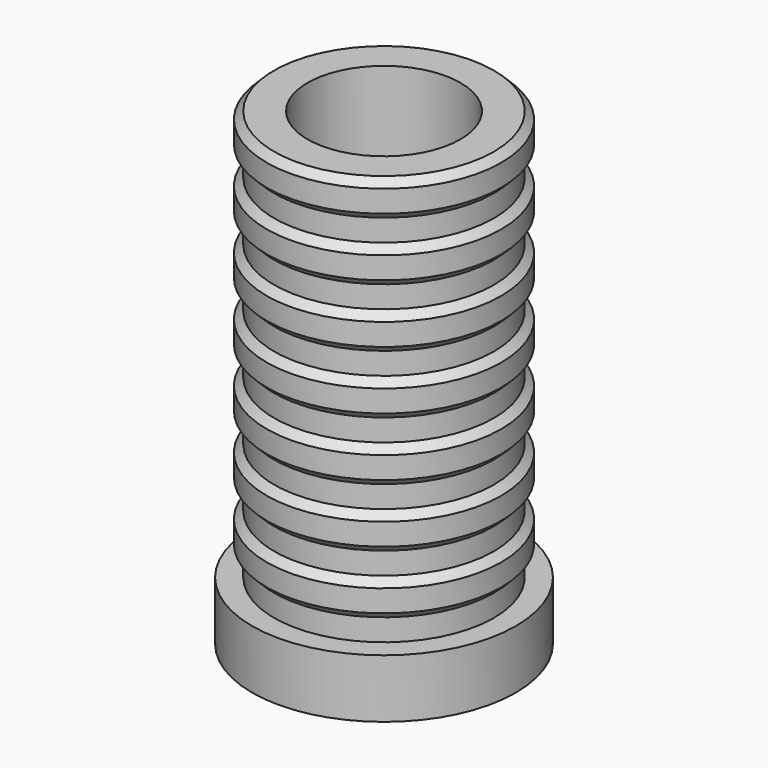
from build123d import *

# Parameters (mm, degrees)
PRISM_DEPTH       = 31
CYLINDER030_R     = 2.75
CYLINDER030_DEPTH = 6
CYLINDER029_R     = 5.2188
CYLINDER029_DEPTH = 31
CYLINDER007_R     = 8
CYLINDER007_DEPTH = 1.5
CYLINDER005_R     = 7.5
CYLINDER005_DEPTH = 2
CYLINDER011_R     = 8
CYLINDER011_DEPTH = 1.5
CYLINDER009_R     = 7.5
CYLINDER009_DEPTH = 2
CYLINDER015_R     = 8
CYLINDER015_DEPTH = 1.5
CYLINDER013_R     = 7.5
CYLINDER013_DEPTH = 2
CYLINDER019_R     = 8
CYLINDER019_DEPTH = 1.5
CYLINDER017_R     = 7.5
CYLINDER017_DEPTH = 2
CYLINDER023_R     = 8
CYLINDER023_DEPTH = 1.5
CYLINDER021_R     = 7.5
CYLINDER021_DEPTH = 2
CYLINDER027_R     = 8
CYLINDER027_DEPTH = 1.5
CYLINDER025_R     = 7.5
CYLINDER025_DEPTH = 2
CYLINDER003_R     = 8
CYLINDER003_DEPTH = 1.5
CYLINDER001_R     = 7.5
CYLINDER001_DEPTH = 2
CYLINDER_R        = 9
CYLINDER_DEPTH    = 4


with BuildPart() as prism:
    # prism → prism (new body)
    with BuildSketch(Plane.XY.offset(4)):
        Polygon((5.08068, 0), (2.54034, 4.399998), (-2.54034, 4.399998), (-5.08068, 0), (-2.54034, -4.399998), (2.54034, -4.399998), align=None)
    extrude(amount=PRISM_DEPTH)


with BuildPart() as cylinder030:
    # cylinder030 → cylinder030 (new body)
    with BuildSketch(Plane.XY.offset(-1)):
        Circle(CYLINDER030_R)
    extrude(amount=CYLINDER030_DEPTH)


with BuildPart() as union001:
    # cylinder029 → cylinder029 (new body)
    with BuildSketch(Plane.XY.offset(8)):
        Circle(CYLINDER029_R)
    extrude(amount=CYLINDER029_DEPTH)

    # union001: union prism, cylinder030
    add(prism.part)
    add(cylinder030.part)


with BuildPart() as cylinder006:
    # cylinder006 → cylinder006 (revolve)
    with BuildSketch(Plane(origin=(0, 0, 1.5), x_dir=(1, 0, 0), z_dir=(0, -1, 0))):
        Polygon((0, 0), (7.5, 0), (8, 0.5), (0, 0.5), align=None)
    revolve(axis=Axis((0, 0, 1.5), (0, 0, 1)))


with BuildPart() as cylinder007:
    # cylinder007 → cylinder007 (new body)
    with BuildSketch(Plane.XY.offset(2)):
        Circle(CYLINDER007_R)
    extrude(amount=CYLINDER007_DEPTH)


with BuildPart() as cylinder008:
    # cylinder008 → cylinder008 (revolve)
    with BuildSketch(Plane(origin=(0, 0, 3.5), x_dir=(1, 0, 0), z_dir=(0, -1, 0))):
        Polygon((0, 0), (8, 0), (7.5, 0.5), (0, 0.5), align=None)
    revolve(axis=Axis((0, 0, 3.5), (0, 0, 1)))


with BuildPart() as matrix_union001:
    # cylinder005 → cylinder005 (new body)
    with BuildSketch(Plane.XY):
        Circle(CYLINDER005_R)
    extrude(amount=CYLINDER005_DEPTH)

    # Matrix_Union001: union cylinder006, cylinder007, cylinder008
    add(cylinder006.part)
    add(cylinder007.part)
    add(cylinder008.part)


with BuildPart() as matrix_union001_1:
    # Matrix_Union001 placement: moved
    add(matrix_union001.part.moved(Location((0, 0, 4))))


with BuildPart() as cylinder010:
    # cylinder010 → cylinder010 (revolve)
    with BuildSketch(Plane(origin=(0, 0, 1.5), x_dir=(1, 0, 0), z_dir=(0, -1, 0))):
        Polygon((0, 0), (7.5, 0), (8, 0.5), (0, 0.5), align=None)
    revolve(axis=Axis((0, 0, 1.5), (0, 0, 1)))


with BuildPart() as cylinder011:
    # cylinder011 → cylinder011 (new body)
    with BuildSketch(Plane.XY.offset(2)):
        Circle(CYLINDER011_R)
    extrude(amount=CYLINDER011_DEPTH)


with BuildPart() as cylinder012:
    # cylinder012 → cylinder012 (revolve)
    with BuildSketch(Plane(origin=(0, 0, 3.5), x_dir=(1, 0, 0), z_dir=(0, -1, 0))):
        Polygon((0, 0), (8, 0), (7.5, 0.5), (0, 0.5), align=None)
    revolve(axis=Axis((0, 0, 3.5), (0, 0, 1)))


with BuildPart() as matrix_union002:
    # cylinder009 → cylinder009 (new body)
    with BuildSketch(Plane.XY):
        Circle(CYLINDER009_R)
    extrude(amount=CYLINDER009_DEPTH)

    # Matrix_Union002: union cylinder010, cylinder011, cylinder012
    add(cylinder010.part)
    add(cylinder011.part)
    add(cylinder012.part)


with BuildPart() as matrix_union002_1:
    # Matrix_Union002 placement: moved
    add(matrix_union002.part.moved(Location((0, 0, 8))))


with BuildPart() as cylinder014:
    # cylinder014 → cylinder014 (revolve)
    with BuildSketch(Plane(origin=(0, 0, 1.5), x_dir=(1, 0, 0), z_dir=(0, -1, 0))):
        Polygon((0, 0), (7.5, 0), (8, 0.5), (0, 0.5), align=None)
    revolve(axis=Axis((0, 0, 1.5), (0, 0, 1)))


with BuildPart() as cylinder015:
    # cylinder015 → cylinder015 (new body)
    with BuildSketch(Plane.XY.offset(2)):
        Circle(CYLINDER015_R)
    extrude(amount=CYLINDER015_DEPTH)


with BuildPart() as cylinder016:
    # cylinder016 → cylinder016 (revolve)
    with BuildSketch(Plane(origin=(0, 0, 3.5), x_dir=(1, 0, 0), z_dir=(0, -1, 0))):
        Polygon((0, 0), (8, 0), (7.5, 0.5), (0, 0.5), align=None)
    revolve(axis=Axis((0, 0, 3.5), (0, 0, 1)))


with BuildPart() as matrix_union003:
    # cylinder013 → cylinder013 (new body)
    with BuildSketch(Plane.XY):
        Circle(CYLINDER013_R)
    extrude(amount=CYLINDER013_DEPTH)

    # Matrix_Union003: union cylinder014, cylinder015, cylinder016
    add(cylinder014.part)
    add(cylinder015.part)
    add(cylinder016.part)


with BuildPart() as matrix_union003_1:
    # Matrix_Union003 placement: moved
    add(matrix_union003.part.moved(Location((0, 0, 12))))


with BuildPart() as cylinder018:
    # cylinder018 → cylinder018 (revolve)
    with BuildSketch(Plane(origin=(0, 0, 1.5), x_dir=(1, 0, 0), z_dir=(0, -1, 0))):
        Polygon((0, 0), (7.5, 0), (8, 0.5), (0, 0.5), align=None)
    revolve(axis=Axis((0, 0, 1.5), (0, 0, 1)))


with BuildPart() as cylinder019:
    # cylinder019 → cylinder019 (new body)
    with BuildSketch(Plane.XY.offset(2)):
        Circle(CYLINDER019_R)
    extrude(amount=CYLINDER019_DEPTH)


with BuildPart() as cylinder020:
    # cylinder020 → cylinder020 (revolve)
    with BuildSketch(Plane(origin=(0, 0, 3.5), x_dir=(1, 0, 0), z_dir=(0, -1, 0))):
        Polygon((0, 0), (8, 0), (7.5, 0.5), (0, 0.5), align=None)
    revolve(axis=Axis((0, 0, 3.5), (0, 0, 1)))


with BuildPart() as matrix_union004:
    # cylinder017 → cylinder017 (new body)
    with BuildSketch(Plane.XY):
        Circle(CYLINDER017_R)
    extrude(amount=CYLINDER017_DEPTH)

    # Matrix_Union004: union cylinder018, cylinder019, cylinder020
    add(cylinder018.part)
    add(cylinder019.part)
    add(cylinder020.part)


with BuildPart() as matrix_union004_1:
    # Matrix_Union004 placement: moved
    add(matrix_union004.part.moved(Location((0, 0, 16))))


with BuildPart() as cylinder022:
    # cylinder022 → cylinder022 (revolve)
    with BuildSketch(Plane(origin=(0, 0, 1.5), x_dir=(1, 0, 0), z_dir=(0, -1, 0))):
        Polygon((0, 0), (7.5, 0), (8, 0.5), (0, 0.5), align=None)
    revolve(axis=Axis((0, 0, 1.5), (0, 0, 1)))


with BuildPart() as cylinder023:
    # cylinder023 → cylinder023 (new body)
    with BuildSketch(Plane.XY.offset(2)):
        Circle(CYLINDER023_R)
    extrude(amount=CYLINDER023_DEPTH)


with BuildPart() as cylinder024:
    # cylinder024 → cylinder024 (revolve)
    with BuildSketch(Plane(origin=(0, 0, 3.5), x_dir=(1, 0, 0), z_dir=(0, -1, 0))):
        Polygon((0, 0), (8, 0), (7.5, 0.5), (0, 0.5), align=None)
    revolve(axis=Axis((0, 0, 3.5), (0, 0, 1)))


with BuildPart() as matrix_union005:
    # cylinder021 → cylinder021 (new body)
    with BuildSketch(Plane.XY):
        Circle(CYLINDER021_R)
    extrude(amount=CYLINDER021_DEPTH)

    # Matrix_Union005: union cylinder022, cylinder023, cylinder024
    add(cylinder022.part)
    add(cylinder023.part)
    add(cylinder024.part)


with BuildPart() as matrix_union005_1:
    # Matrix_Union005 placement: moved
    add(matrix_union005.part.moved(Location((0, 0, 20))))


with BuildPart() as cylinder026:
    # cylinder026 → cylinder026 (revolve)
    with BuildSketch(Plane(origin=(0, 0, 1.5), x_dir=(1, 0, 0), z_dir=(0, -1, 0))):
        Polygon((0, 0), (7.5, 0), (8, 0.5), (0, 0.5), align=None)
    revolve(axis=Axis((0, 0, 1.5), (0, 0, 1)))


with BuildPart() as cylinder027:
    # cylinder027 → cylinder027 (new body)
    with BuildSketch(Plane.XY.offset(2)):
        Circle(CYLINDER027_R)
    extrude(amount=CYLINDER027_DEPTH)


with BuildPart() as cylinder028:
    # cylinder028 → cylinder028 (revolve)
    with BuildSketch(Plane(origin=(0, 0, 3.5), x_dir=(1, 0, 0), z_dir=(0, -1, 0))):
        Polygon((0, 0), (8, 0), (7.5, 0.5), (0, 0.5), align=None)
    revolve(axis=Axis((0, 0, 3.5), (0, 0, 1)))


with BuildPart() as matrix_union006:
    # cylinder025 → cylinder025 (new body)
    with BuildSketch(Plane.XY):
        Circle(CYLINDER025_R)
    extrude(amount=CYLINDER025_DEPTH)

    # Matrix_Union006: union cylinder026, cylinder027, cylinder028
    add(cylinder026.part)
    add(cylinder027.part)
    add(cylinder028.part)


with BuildPart() as matrix_union006_1:
    # Matrix_Union006 placement: moved
    add(matrix_union006.part.moved(Location((0, 0, 24))))


with BuildPart() as cylinder002:
    # cylinder002 → cylinder002 (revolve)
    with BuildSketch(Plane(origin=(0, 0, 1.5), x_dir=(1, 0, 0), z_dir=(0, -1, 0))):
        Polygon((0, 0), (7.5, 0), (8, 0.5), (0, 0.5), align=None)
    revolve(axis=Axis((0, 0, 1.5), (0, 0, 1)))


with BuildPart() as cylinder003:
    # cylinder003 → cylinder003 (new body)
    with BuildSketch(Plane.XY.offset(2)):
        Circle(CYLINDER003_R)
    extrude(amount=CYLINDER003_DEPTH)


with BuildPart() as cylinder004:
    # cylinder004 → cylinder004 (revolve)
    with BuildSketch(Plane(origin=(0, 0, 3.5), x_dir=(1, 0, 0), z_dir=(0, -1, 0))):
        Polygon((0, 0), (8, 0), (7.5, 0.5), (0, 0.5), align=None)
    revolve(axis=Axis((0, 0, 3.5), (0, 0, 1)))


with BuildPart() as group003:
    # cylinder001 → cylinder001 (new body)
    with BuildSketch(Plane.XY):
        Circle(CYLINDER001_R)
    extrude(amount=CYLINDER001_DEPTH)

    # Matrix_Union: union cylinder002, cylinder003, cylinder004
    add(cylinder002.part)
    add(cylinder003.part)
    add(cylinder004.part)

    # Group003: union Matrix_Union001, Matrix_Union002, Matrix_Union003, Matrix_Union004, Matrix_Union005, Matrix_Union006
    add(matrix_union001_1.part)
    add(matrix_union002_1.part)
    add(matrix_union003_1.part)
    add(matrix_union004_1.part)
    add(matrix_union005_1.part)
    add(matrix_union006_1.part)


with BuildPart() as group003_1:
    # Group003 placement: moved
    add(group003.part.moved(Location((0, 0, 4))))


with BuildPart() as polebase:
    # cylinder → cylinder (new body)
    with BuildSketch(Plane.XY):
        Circle(CYLINDER_R)
    extrude(amount=CYLINDER_DEPTH)

    # union: union Group003
    add(group003_1.part)

    # difference: cut union001
    add(union001.part, mode=Mode.SUBTRACT)


solid = polebase.part
